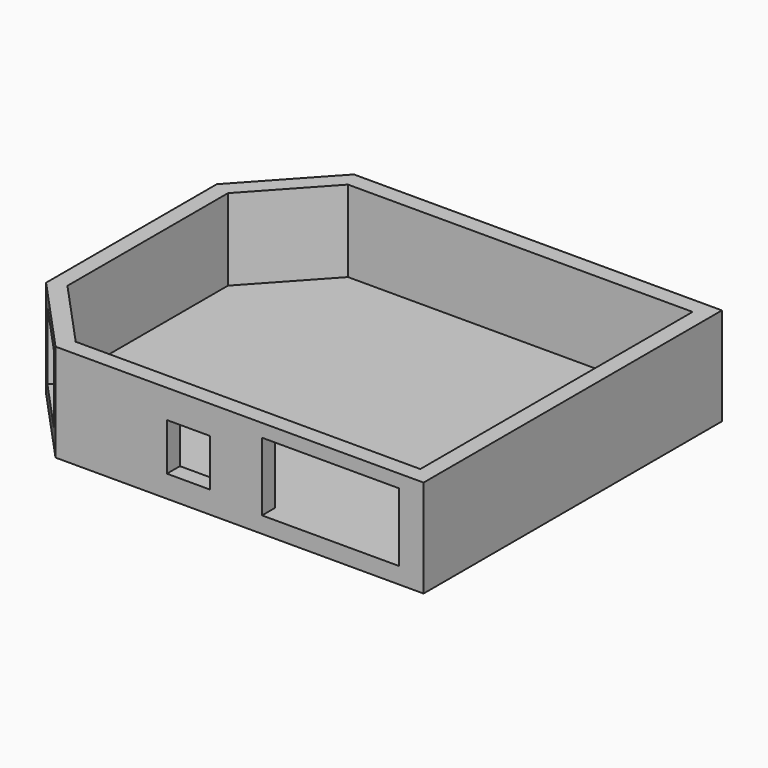
from build123d import *

# Parameters (mm, degrees)
F1_DEPTH = 5
F3_DEPTH = 25
F4_W     = 13.2
F4_H     = 14.5
F4_W_2   = 42
F4_H_2   = 21
F5_DEPTH = 25
F6_W     = 24
F6_H     = 21
F7_DEPTH = 5


with BuildPart() as f1:
    # F0 (on Top) → F1 (new body)
    with BuildSketch(Plane.XY):
        Polygon((44.5768064258, -65.4202470779), (44.5768064258, 49.0797529221), (-68.4231935742, 49.0797529221), (-90.9231935742, 24.5797529221), (-90.9231935742, -40.9202470779), (-68.4231935742, -65.4202470779), align=None)
    extrude(amount=F1_DEPTH)

    # F2 (on face) → F3 (join)
    with BuildSketch(Plane.XY.offset(5)):
        Polygon((-68.4231935742, -65.4202470779), (44.5768064258, -65.4202470779), (44.5768064258, 49.0797529221), (-68.4231935742, 49.0797529221), (-90.9231935742, 24.5797529221), (-90.9231935742, -40.9202470779), align=None)
        Polygon((-85.9231935742, 22.6321763094), (-66.2264395422, 44.0797529221), (39.5768064258, 44.0797529221), (39.5768064258, -60.4202470779), (-66.2264395422, -60.4202470779), (-85.9231935742, -38.9726704653), align=None, mode=Mode.SUBTRACT)
    extrude(amount=F3_DEPTH)

    # F4 (on face) → F5 (cut)
    with BuildSketch(Plane.XZ.offset(65.4202470779)):
        with Locations((-27.6231935742, 14.0335976612)):
            Rectangle(F4_W, F4_H)
        with Locations((15.9768064258, 15.5)):
            Rectangle(F4_W_2, F4_H_2)
    extrude(amount=-F5_DEPTH, mode=Mode.SUBTRACT)

    # F6 (on face) → F7 (cut, through all)
    with BuildSketch(Plane(origin=(-69.7098356481, -64.0192368197, 0), x_dir=(0.6764049996, -0.7365298884, 0), z_dir=(-0.7365298884, -0.6764049996, 0))):
        with Locations((-14.7619176963, 15.5)):
            Rectangle(F6_W, F6_H)
    extrude(amount=-F7_DEPTH, mode=Mode.SUBTRACT)


solid = f1.part
